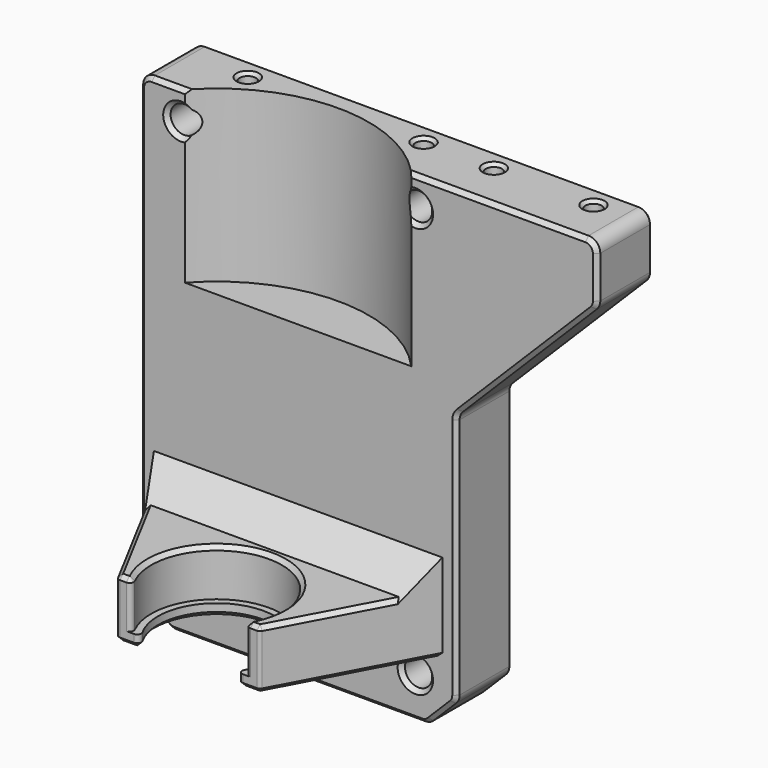
from build123d import *

# Parameters (mm, degrees)
SKETCH025_R         = 2.325
PAD012_DEPTH        = 12
CHAMFER006_SIZE     = 5
FILLET_R            = 2
CHAMFER007_SIZE     = 0.7
SKETCH030_R         = 26
POCKET007_DEPTH     = 29.001
SKETCH031_R         = 10
PAD016_DEPTH        = 10
SKETCH032_R         = 11.15
POCKET008_DEPTH     = 8
CHAMFER008_SIZE     = 5
HOLE003_D           = 2.75
HOLE003_DEPTH       = 12
HOLE003_CSINK_D     = 3.8
HOLE003_CSINK_ANGLE = 90
HOLE003_TIPS_R      = 1.375
SKETCH034_W         = 51.071297
SKETCH034_H         = 46.191857
POCKET009_DEPTH     = 7.501
FILLET005_R         = 0.7
CHAMFER011_SIZE     = 0.69


with BuildPart() as part:
    # Sketch025 → Pad012 (new body)
    with BuildSketch(Plane.XZ):
        Polygon((-27, 50), (51, 50), (51, 40), (27, 16), (27, -32), (-27, -32), align=None)
        with Locations((-20, -25)):
            Circle(SKETCH025_R, mode=Mode.SUBTRACT)
        with Locations((-20, 45)):
            Circle(SKETCH025_R, mode=Mode.SUBTRACT)
        with Locations((20, 45)):
            Circle(SKETCH025_R, mode=Mode.SUBTRACT)
        with Locations((20, -25)):
            Circle(SKETCH025_R, mode=Mode.SUBTRACT)
    extrude(amount=PAD012_DEPTH)

    # Chamfer006
    chamfer006_edges = [part.edges().sort_by_distance(p)[0] for p in [
        (-27, -6, -32),
        (27, -6, -32),
    ]]
    chamfer(chamfer006_edges, length=CHAMFER006_SIZE)

    # Fillet
    fillet_edges = [part.edges().sort_by_distance(p)[0] for p in [
        (-22, -6, -32),
        (-27, -6, -27),
        (22, -6, -32),
        (27, -6, -27),
        (27, -6, 16),
        (51, -6, 40),
        (51, -6, 50),
        (-27, -6, 50),
    ]]
    fillet(fillet_edges, radius=FILLET_R)

    # Chamfer007
    chamfer007_edges = [part.edges().sort_by_distance(p)[0] for p in [
        (0, 0, -32),
        (21.93694, 0, -31.847759),
        (-21.93694, 0, -31.847759),
        (24.5, 0, -29.5),
        (-24.5, 0, -29.5),
        (26.847759, 0, -26.93694),
        (-26.847759, 0, -26.93694),
        (27, 0, -5.5),
        (-27, 0, 10.914214),
        (27.152241, 0, 15.93694),
        (-26.414214, 0, 49.414214),
        (39, 0, 28),
        (12, 0, 50),
        (50.847759, 0, 40.06306),
        (50.414214, 0, 49.414214),
        (51, 0, 44.414214),
        (17.675, 0, 45),
        (-22.325, 0, 45),
        (17.675, 0, -25),
        (-22.325, 0, -25),
        (0, -12, -32),
        (21.93694, -12, -31.847759),
        (-21.93694, -12, -31.847759),
        (24.5, -12, -29.5),
        (-24.5, -12, -29.5),
        (26.847759, -12, -26.93694),
        (-26.847759, -12, -26.93694),
        (27, -12, -5.5),
        (-27, -12, 10.914214),
        (27.152241, -12, 15.93694),
        (-26.414214, -12, 49.414214),
        (39, -12, 28),
        (12, -12, 50),
        (50.847759, -12, 40.06306),
        (50.414214, -12, 49.414214),
        (51, -12, 44.414214),
        (17.675, -12, 45),
        (-22.325, -12, 45),
        (17.675, -12, -25),
        (-22.325, -12, -25),
    ]]
    chamfer(chamfer007_edges, length=CHAMFER007_SIZE)

    # Sketch030 → Pocket007 (cut, through all)
    with BuildSketch(Plane(origin=(0, -29.4, 21), x_dir=(1, 0, 0), z_dir=(0, 0, 1))):
        Circle(SKETCH030_R)
    extrude(amount=POCKET007_DEPTH, mode=Mode.SUBTRACT)

    # Sketch031 → Pad016 (join)
    with BuildSketch(Plane(origin=(0, -29.4, -21), x_dir=(1, 0, 0), z_dir=(0, 0, 1))):
        with BuildLine():
            ThreePointArc((-11.905507, -6.36466), (0, -13.5), (11.905507, -6.36466))
            Line((26, 20), (11.905507, -6.36466))
            Line((-26, 20), (26, 20))
            Line((-11.905507, -6.36466), (-26, 20))
        make_face()
        Circle(SKETCH031_R, mode=Mode.SUBTRACT)
    extrude(amount=PAD016_DEPTH)

    # Sketch032 (on Face56 of Pad016) → Pocket008 (cut)
    with BuildSketch(Plane(origin=(0, 0, -11), x_dir=(-1, 0, 0), z_dir=(0, 0, 1))):
        with Locations((0, 29.4)):
            Circle(SKETCH032_R)
    extrude(amount=-POCKET008_DEPTH, mode=Mode.SUBTRACT)

    # Chamfer008
    chamfer008_edges = [part.edges().sort_by_distance(p)[0] for p in [
        (0, -12, -11),
    ]]
    chamfer(chamfer008_edges, length=CHAMFER008_SIZE)

    # Hole003
    with Locations(Plane(origin=(0, 0, 50), x_dir=(-1, 0, 0), z_dir=(0, 0, 1))):
        with Locations((15, 4), (-15, 4), (-27, 4), (-44, 4)):
            CounterSinkHole(HOLE003_D / 2, HOLE003_CSINK_D / 2, depth=HOLE003_DEPTH, counter_sink_angle=HOLE003_CSINK_ANGLE)

    # Hole003 tips → Hole003 tip 1 section 0
    with BuildSketch(Plane(origin=(0, 0, 38), x_dir=(-1, 0, 0), z_dir=(0, 0, 1)), mode=Mode.PRIVATE) as hole003_tip_1_s0:
        with Locations((15, 4)):
            Circle(HOLE003_TIPS_R)
    loft([hole003_tip_1_s0.sketch, Vertex(-15, -4, 37.173817)], mode=Mode.SUBTRACT)

    # Hole003 tips → Hole003 tip 2 section 0
    with BuildSketch(Plane(origin=(0, 0, 38), x_dir=(-1, 0, 0), z_dir=(0, 0, 1)), mode=Mode.PRIVATE) as hole003_tip_2_s0:
        with Locations((-15, 4)):
            Circle(HOLE003_TIPS_R)
    loft([hole003_tip_2_s0.sketch, Vertex(15, -4, 37.173817)], mode=Mode.SUBTRACT)

    # Hole003 tips → Hole003 tip 3 section 0
    with BuildSketch(Plane(origin=(0, 0, 38), x_dir=(-1, 0, 0), z_dir=(0, 0, 1)), mode=Mode.PRIVATE) as hole003_tip_3_s0:
        with Locations((-27, 4)):
            Circle(HOLE003_TIPS_R)
    loft([hole003_tip_3_s0.sketch, Vertex(27, -4, 37.173817)], mode=Mode.SUBTRACT)

    # Hole003 tips → Hole003 tip 4 section 0
    with BuildSketch(Plane(origin=(0, 0, 38), x_dir=(-1, 0, 0), z_dir=(0, 0, 1)), mode=Mode.PRIVATE) as hole003_tip_4_s0:
        with Locations((-44, 4)):
            Circle(HOLE003_TIPS_R)
    loft([hole003_tip_4_s0.sketch, Vertex(44, -4, 37.173817)], mode=Mode.SUBTRACT)

    # Sketch034 → Pocket009 (cut, through all)
    with BuildSketch(Plane.XZ.offset(35.4)):
        with Locations((1.865184, -14.980418)):
            Rectangle(SKETCH034_W, SKETCH034_H)
    extrude(amount=POCKET009_DEPTH, mode=Mode.SUBTRACT)

    # Fillet005
    fillet005_edges = [part.edges().sort_by_distance(p)[0] for p in [
        (-9.398005, -35.4, -15),
        (-8, -35.4, -20),
        (-12.100454, -35.4, -16),
        (9.398005, -35.4, -15),
        (12.100454, -35.4, -16),
        (8, -35.4, -20),
    ]]
    fillet(fillet005_edges, radius=FILLET005_R)

    # Chamfer011
    chamfer011_edges = [part.edges().sort_by_distance(p)[0] for p in [
        (17.11765, -26.01501, -11),
        (18.454145, -23.51501, -21),
    ]]
    chamfer(chamfer011_edges, length=CHAMFER011_SIZE)


with BuildPart() as part_1:
    # Body010 placement: moved
    add(part.part.moved(Location((0, -2.6, 0))))


solid = part_1.part
